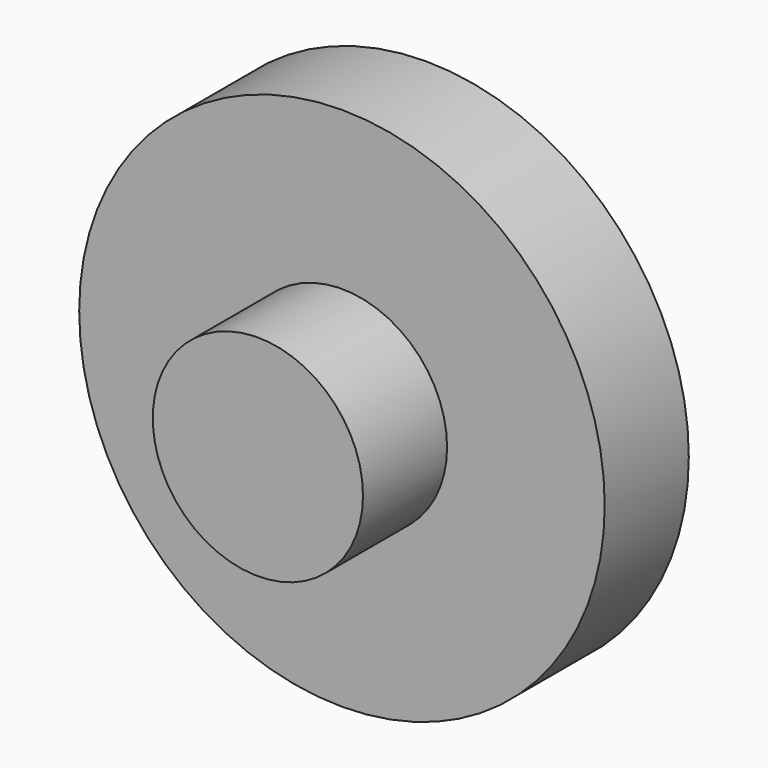
from build123d import *

# Parameters (mm, degrees)
F0_R     = 10
F1_DEPTH = 15
F2_DEPTH = 15
F0_R_2   = 25
F3_DEPTH = 5
F4_DEPTH = 5


with BuildPart() as f1:
    # F0 (on Front) → F1 (new body)
    with BuildSketch(Plane.XZ):
        Circle(F0_R)
    extrude(amount=F1_DEPTH)

    # F0 (on Front) → F2 (join)
    with BuildSketch(Plane.XZ):
        Circle(F0_R)
    extrude(amount=-F2_DEPTH)

    # F0 (on Front) → F3 (join)
    with BuildSketch(Plane.XZ):
        Circle(F0_R_2)
        Circle(F0_R, mode=Mode.SUBTRACT)
    extrude(amount=F3_DEPTH)

    # F0 (on Front) → F4 (join)
    with BuildSketch(Plane.XZ):
        Circle(F0_R_2)
        Circle(F0_R, mode=Mode.SUBTRACT)
    extrude(amount=-F4_DEPTH)


solid = f1.part
